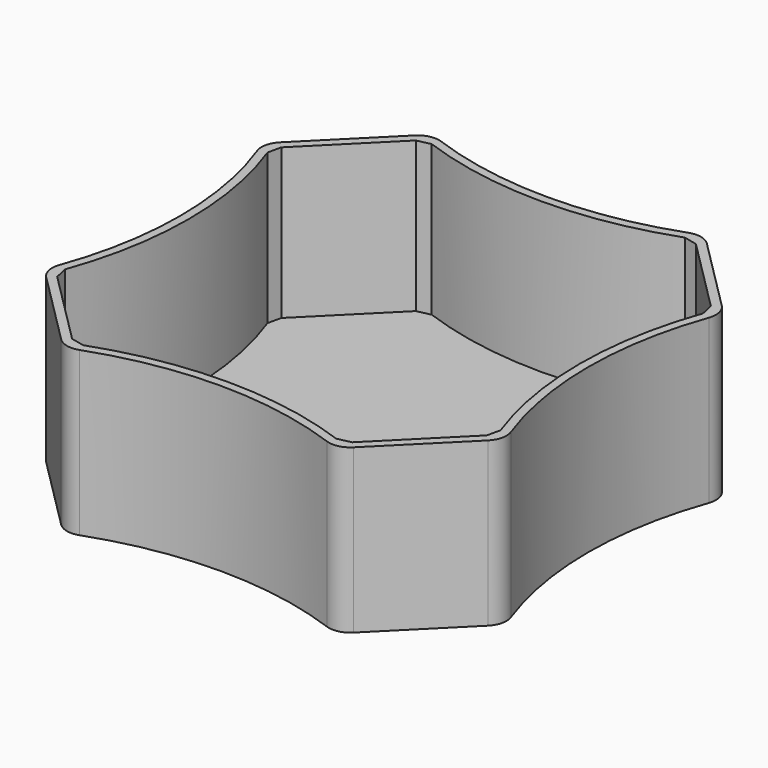
from build123d import *

# Parameters (mm, degrees)
F1_DEPTH = 3
F2_DEPTH = 38


with BuildPart() as f1:
    # F0 (on Top) → F1 (new body)
    with BuildSketch(Plane.XY):
        with BuildLine():
            Line((-29.486745, 50.743228), (-32.628239, 50.043334))
            Line((-32.628239, 50.043334), (-50.03556, 32.636013))
            Line((-50.03556, 32.636013), (-50.733318, 29.48863))
            ThreePointArc((-50.733318, 29.48863), (-45.524481, 0.001757), (-50.732786, -29.48521))
            Line((-50.732786, -29.48521), (-50.03543, -32.636771))
            Line((-50.03543, -32.636771), (-32.624312, -50.047261))
            Line((-32.624312, -50.047261), (-29.488482, -50.748114))
            ThreePointArc((-29.488482, -50.748114), (-0.0012, -45.597933), (29.486361, -50.746519))
            Line((29.486361, -50.746519), (32.626142, -50.046688))
            Line((32.626142, -50.046688), (50.043334, -32.628239))
            Line((50.043334, -32.628239), (50.752359, -29.490168))
            ThreePointArc((50.752359, -29.490168), (45.620311, -0.002723), (50.750765, 29.485))
            Line((50.750765, 29.485), (50.048982, 32.622591))
            Line((50.048982, 32.622591), (32.627636, 50.043309))
            Line((32.627636, 50.043309), (29.487828, 50.743759))
            ThreePointArc((29.487828, 50.743759), (0.000588, 45.578735), (-29.486745, 50.743228))
        make_face()
    extrude(amount=F1_DEPTH)

    # F0 (on Top) → F2 (join)
    with BuildSketch(Plane.XY):
        with BuildLine():
            Line((51.463484, 34.036516), (34.041824, 51.457548))
            ThreePointArc((34.041824, 51.457548), (31.594081, 52.802201), (28.806988, 52.624307))
            ThreePointArc((28.806988, 52.624307), (-0.000283, 47.578735), (-28.807543, 52.624367))
            ThreePointArc((-28.807543, 52.624367), (-31.594685, 52.802256), (-34.042452, 51.457548))
            Line((-34.042452, 51.457548), (-51.449774, 34.050226))
            ThreePointArc((-51.449774, 34.050226), (-52.796042, 31.595437), (-52.611684, 28.801794))
            ThreePointArc((-52.611684, 28.801794), (-47.524481, 2.7e-05), (-52.612337, -28.801624))
            ThreePointArc((-52.612337, -28.801624), (-52.796736, -31.595362), (-51.450402, -34.050226))
            Line((-51.450402, -34.050226), (-34.039258, -51.460742))
            ThreePointArc((-34.039258, -51.460742), (-31.593956, -52.804851), (-28.809126, -52.629199))
            ThreePointArc((-28.809126, -52.629199), (0.000766, -47.597933), (28.810704, -52.628936))
            ThreePointArc((28.810704, -52.628936), (31.595645, -52.804538), (34.040984, -51.460273))
            Line((34.040984, -51.460273), (51.463484, -34.036516))
            ThreePointArc((51.463484, -34.036516), (52.80688, -31.594178), (52.633919, -28.812127))
            ThreePointArc((52.633919, -28.812127), (47.620311, -9.5e-05), (52.6341, 28.811906))
            ThreePointArc((52.6341, 28.811906), (52.807045, 31.594103), (51.463484, 34.036516))
        make_face()
        with BuildLine():
            Line((-50.03556, 32.636013), (-32.628239, 50.043334))
            Line((-32.628239, 50.043334), (-29.486745, 50.743228))
            ThreePointArc((-29.486745, 50.743228), (0.000588, 45.578735), (29.487828, 50.743759))
            Line((29.487828, 50.743759), (32.627636, 50.043309))
            Line((32.627636, 50.043309), (50.048982, 32.622591))
            Line((50.048982, 32.622591), (50.750765, 29.485))
            ThreePointArc((50.750765, 29.485), (45.620311, -0.002723), (50.752359, -29.490168))
            Line((50.752359, -29.490168), (50.043334, -32.628239))
            Line((50.043334, -32.628239), (32.626142, -50.046688))
            Line((32.626142, -50.046688), (29.486361, -50.746519))
            ThreePointArc((29.486361, -50.746519), (-0.0012, -45.597933), (-29.488482, -50.748114))
            Line((-29.488482, -50.748114), (-32.624312, -50.047261))
            Line((-32.624312, -50.047261), (-50.03543, -32.636771))
            Line((-50.03543, -32.636771), (-50.732786, -29.48521))
            ThreePointArc((-50.732786, -29.48521), (-45.524481, 0.001757), (-50.733318, 29.48863))
            Line((-50.733318, 29.48863), (-50.03556, 32.636013))
        make_face(mode=Mode.SUBTRACT)
    extrude(amount=F2_DEPTH)


solid = f1.part
